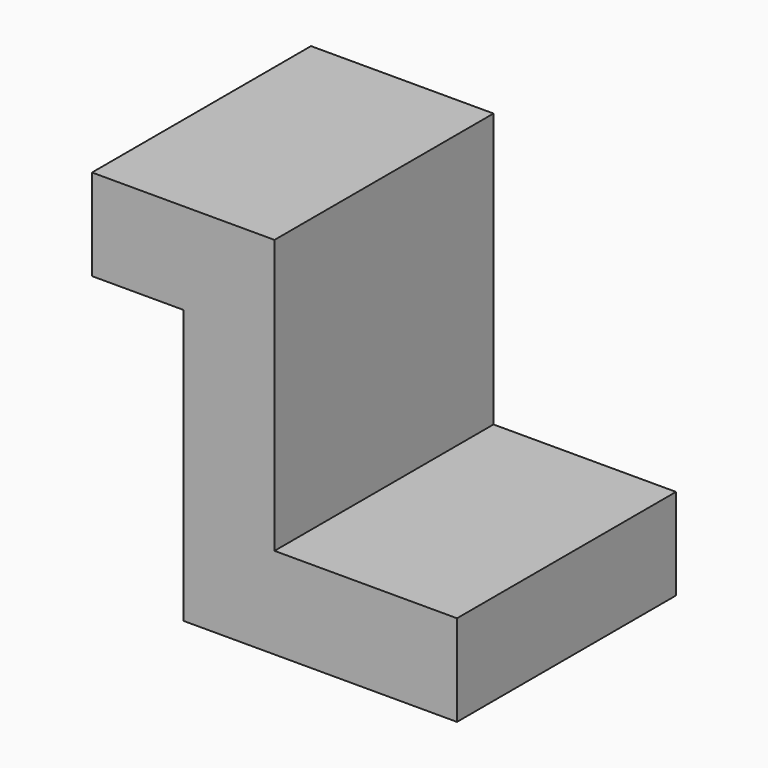
from build123d import *

# Parameters (mm, degrees)
F1_DEPTH = 25.4
F2_DEPTH = 25.4
F3_DEPTH = 25.4


with BuildPart() as f1:
    # F0 (on Front) → F1 (new body)
    with BuildSketch(Plane.XZ):
        Polygon((-23.7604218155, 67.1883597866), (-74.5604218155, 67.1883597866), (-74.5604218155, 41.7883597866), (-49.1604218155, 41.7883597866), (-49.1604218155, -34.4116402134), (27.0395781845, -34.4116402134), (27.0395781845, -9.0116402134), (-23.7604218155, -9.0116402134), align=None)
    extrude(amount=F1_DEPTH)

    # F2 (add): a face of the model
    f2_faces = [f1.faces().sort_by_distance(p)[0] for p in [
        (-29.2032789584, -25.4, 10.9455026437),
    ]]
    extrude(f2_faces, amount=F2_DEPTH)

    # F3 (add): a face of the model
    f3_faces = [f1.faces().sort_by_distance(p)[0] for p in [
        (-29.2032789584, -50.8, 10.9455026437),
    ]]
    extrude(f3_faces, amount=F3_DEPTH)


solid = f1.part
